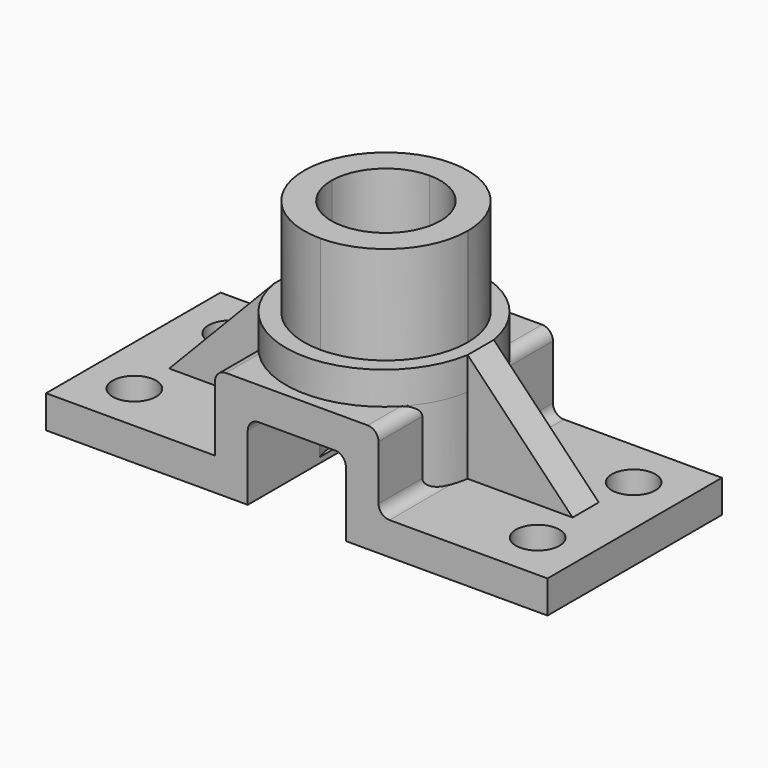
from build123d import *

# Parameters (mm, degrees)
F1_DEPTH  = 40
F14_R     = 4
F2_DEPTH  = 6
F3_R      = 4
F15_DEPTH = 6
F16_DEPTH = 14
F6_DEPTH  = 6
F17_DEPTH = 18
F18_DEPTH = 25
F8_DEPTH  = 20
F9_DEPTH  = 20
F10_DEPTH = 6
F12_DEPTH = 6
F13_DEPTH = 12


with BuildPart() as f1:
    # F0 (on Front) → F1 (new body)
    with BuildSketch(Plane.XZ):
        with BuildLine():
            Line((8.6878103536, 0), (45.6878103536, 0))
            Line((45.6878103536, 0), (45.6878103536, 6))
            Line((45.6878103536, 6), (16.6878103536, 6))
            ThreePointArc((16.6878103536, 6), (15.2735967912, 6.5857864376), (14.6878103536, 8))
            Line((14.6878103536, 8), (14.6878103536, 18))
            ThreePointArc((14.6878103536, 18), (14.102023916, 19.4142135624), (12.6878103536, 20))
            Line((12.6878103536, 20), (-13.3121896464, 20))
            ThreePointArc((-13.3121896464, 20), (-14.7264032088, 19.4142135624), (-15.3121896464, 18))
            Line((-15.3121896464, 18), (-15.3121896464, 6))
            Line((-15.3121896464, 6), (-46.3121896464, 6))
            Line((-46.3121896464, 6), (-46.3121896464, 0))
            Line((-46.3121896464, 0), (-9.3121896464, 0))
            Line((-9.3121896464, 0), (-9.3121896464, 12))
            ThreePointArc((-9.3121896464, 12), (-8.7264032088, 13.4142135624), (-7.3121896464, 14))
            Line((-7.3121896464, 14), (6.6878103536, 14))
            ThreePointArc((6.6878103536, 14), (8.102023916, 13.4142135624), (8.6878103536, 12))
            Line((8.6878103536, 12), (8.6878103536, 0))
        make_face()
    extrude(amount=F1_DEPTH)

    # F14 (on face) → F2 (cut)
    with BuildSketch(Plane.XY.offset(6)):
        with Locations((-37.3121896464, -31)):
            Circle(F14_R)
        with Locations((-37.3121896464, -9)):
            Circle(F14_R)
    extrude(amount=-F2_DEPTH, mode=Mode.SUBTRACT)

    # F3 (on face) → F15 (cut)
    with BuildSketch(Plane.XY.offset(6)):
        with Locations((36.6878103536, -31)):
            Circle(F3_R)
        with Locations((36.6878103536, -9)):
            Circle(F3_R)
    extrude(amount=-F15_DEPTH, mode=Mode.SUBTRACT)

    # F4 (on face) → F16 (join)
    with BuildSketch(Plane.XY.offset(20)):
        with BuildLine():
            Line((12.6878103536, -32.449899598), (12.6878103536, -7.550100402))
            ThreePointArc((12.6878103536, -7.550100402), (-0.3121896464, -2), (-13.3121896464, -7.550100402))
            Line((-13.3121896464, -7.550100402), (-13.3121896464, -32.449899598))
            ThreePointArc((-13.3121896464, -32.449899598), (-0.3121896464, -38), (12.6878103536, -32.449899598))
        make_face()
        with BuildLine():
            Line((-13.3121896464, -32.449899598), (-13.3121896464, -7.550100402))
            ThreePointArc((-13.3121896464, -7.550100402), (-18.3121896464, -20), (-13.3121896464, -32.449899598))
        make_face()
        with BuildLine():
            ThreePointArc((12.6878103536, -32.449899598), (16.3911034421, -26.7082039325), (17.6878103536, -20))
            ThreePointArc((17.6878103536, -20), (16.3911034421, -13.2917960675), (12.6878103536, -7.550100402))
            Line((12.6878103536, -7.550100402), (12.6878103536, -32.449899598))
        make_face()
    extrude(amount=-F16_DEPTH)

    # F5 (on face) → F6 (join)
    with BuildSketch(Plane.XY.offset(20)):
        with BuildLine():
            ThreePointArc((12.6878103536, -32.449899598), (16.3911034421, -26.7082039325), (17.6878103536, -20))
            ThreePointArc((17.6878103536, -20), (16.3911034421, -13.2917960675), (12.6878103536, -7.550100402))
            ThreePointArc((12.6878103536, -7.550100402), (-0.3121896464, -2), (-13.3121896464, -7.550100402))
            ThreePointArc((-13.3121896464, -7.550100402), (-18.3121896464, -20), (-13.3121896464, -32.449899598))
            ThreePointArc((-13.3121896464, -32.449899598), (-0.3121896464, -38), (12.6878103536, -32.449899598))
        make_face()
    extrude(amount=F6_DEPTH)

    # F7 (on face) → F17 (join)
    with BuildSketch(Plane.XY.offset(26)):
        with BuildLine():
            Line((-9.9985091191, -19.7734791318), (-14.9990061206, -19.7734791318))
            ThreePointArc((-14.9990061206, -19.7734791318), (-10.6674755741, -30.4915269508), (0, -34.9461504817))
            Line((0, -34.9461504817), (0, -29.9461504817))
            ThreePointArc((0, -29.9461504817), (-7.1318550707, -26.9559039189), (-9.9985091191, -19.7734791318))
        make_face()
        with BuildLine():
            ThreePointArc((15, -19.9461504817), (14.9997515281, -19.8598133766), (14.9990061206, -19.7734791318))
            Line((14.9990061206, -19.7734791318), (9.9985091191, -19.7734791318))
            ThreePointArc((9.9985091191, -19.7734791318), (9.9996272728, -19.8598115887), (10, -19.9461504817))
            ThreePointArc((10, -19.9461504817), (7.0710678119, -27.0172182936), (0, -29.9461504817))
            Line((0, -29.9461504817), (0, -34.9461504817))
            ThreePointArc((0, -34.9461504817), (10.6066017178, -30.5527521995), (15, -19.9461504817))
        make_face()
        with BuildLine():
            ThreePointArc((14.9990061206, -19.7734791318), (10.5453764691, -9.2786749076), (0, -4.9461504817))
            Line((0, -4.9461504817), (0, -9.9461504817))
            ThreePointArc((0, -9.9461504817), (7.0097534372, -12.814295411), (9.9985091191, -19.7734791318))
            Line((9.9985091191, -19.7734791318), (14.9990061206, -19.7734791318))
        make_face()
        with BuildLine():
            Line((0, -9.9461504817), (0, -4.9461504817))
            ThreePointArc((0, -4.9461504817), (-10.5453764691, -9.2786749076), (-14.9990061206, -19.7734791318))
            Line((-14.9990061206, -19.7734791318), (-9.9985091191, -19.7734791318))
            ThreePointArc((-9.9985091191, -19.7734791318), (-7.0097534372, -12.814295411), (0, -9.9461504817))
        make_face()
    extrude(amount=F17_DEPTH)

    # F18 (cut): a face of the model
    f18_faces = [f1.faces().sort_by_distance(p)[0] for p in [
        (0, -19.9461504817, 26),
    ]]
    extrude(f18_faces, amount=-F18_DEPTH, mode=Mode.SUBTRACT)

    # F19 (on face) → F8 (join)
    with BuildSketch(Plane.XY.offset(6)):
        with BuildLine():
            Line((36.6878103536, -23), (36.6878103536, -17))
            Line((36.6878103536, -17), (17.4360497029, -17))
            ThreePointArc((17.4360497029, -17), (17.6878103536, -20), (17.4360497029, -23))
            Line((17.4360497029, -23), (36.6878103536, -23))
        make_face()
    extrude(amount=F8_DEPTH)

    # F20 (on face) → F9 (join)
    with BuildSketch(Plane.XY.offset(6)):
        with BuildLine():
            Line((-18.0604289957, -17), (-37.3121896464, -17))
            Line((-37.3121896464, -17), (-37.3121896464, -23))
            Line((-37.3121896464, -23), (-18.0604289957, -23))
            ThreePointArc((-18.0604289957, -23), (-18.3121896464, -20), (-18.0604289957, -17))
        make_face()
    extrude(amount=F9_DEPTH)

    # F21 (on face) → F10 (cut)
    with BuildSketch(Plane.XZ.offset(23)):
        Polygon((17.4360497029, 26), (36.6878103536, 6), (36.6878103536, 26), align=None)
    extrude(amount=-F10_DEPTH, mode=Mode.SUBTRACT)

    # F11 (on face) → F12 (cut)
    with BuildSketch(Plane.XZ.offset(23)):
        Polygon((-37.3121896464, 26), (-37.3121896464, 6), (-18.0604289957, 26), align=None)
    extrude(amount=-F12_DEPTH, mode=Mode.SUBTRACT)

    # F13 (cut): faces of the model
    f13_faces = [f1.faces().sort_by_distance(p)[0] for p in [
        (-0.4565347665, -7.2840433998, 6),
        (-0.4547848435, -32.6635017138, 6),
        (-0.4565347665, -7.2840433998, 6),
        (-0.4547848435, -32.6635017138, 6),
    ]]
    extrude(f13_faces, amount=-F13_DEPTH, mode=Mode.SUBTRACT)


solid = f1.part
